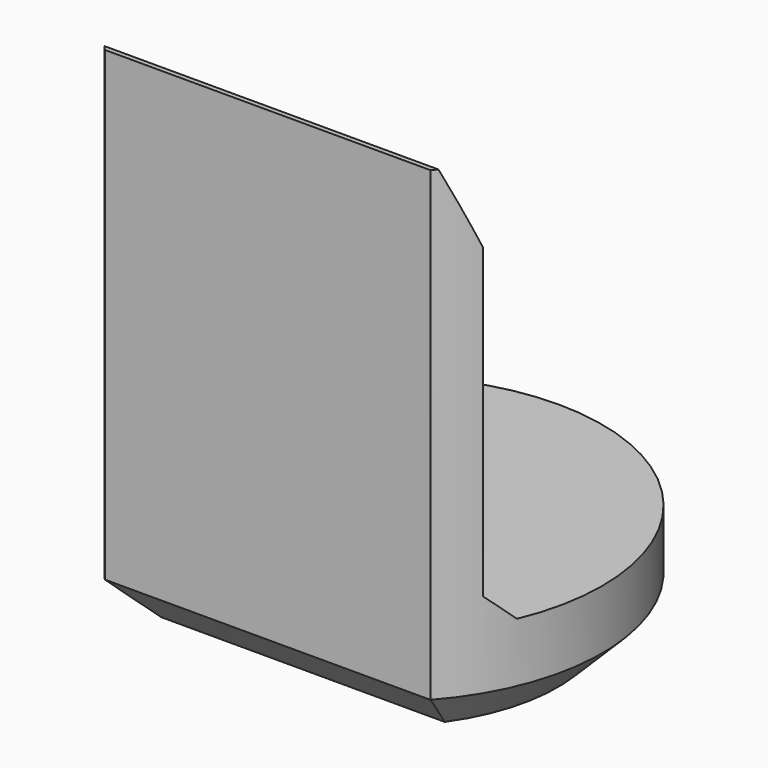
from build123d import *

# Parameters (mm, degrees)
PAD007_DEPTH         = 6.9
POCKET005_DEPTH      = 2.951
POCKET005_DEPTH_BACK = 2.951
CHAMFER008_SIZE      = 0.6


with BuildPart() as part:
    # Sketch018 → Pad007 (new body)
    with BuildSketch(Plane.XY):
        with BuildLine():
            ThreePointArc((2.2, -1.9653244007), (0, 2.95), (-2.2, -1.9653244007))
            Line((-2.2, -1.9653244007), (2.2, -1.9653244007))
        make_face()
    extrude(amount=PAD007_DEPTH)

    # Sketch019 → Pocket005 (cut, two sides)
    with BuildSketch(Plane.YZ) as pocket005_sk:
        Polygon((-1.9, 6.9), (-1.5, 5.9), (-1.5, 1.75), (-1.15, 1.4), (5, 1.4), (5, 6.9), align=None)
    extrude(amount=-POCKET005_DEPTH, mode=Mode.SUBTRACT)
    extrude(pocket005_sk.sketch, amount=POCKET005_DEPTH_BACK, mode=Mode.SUBTRACT)

    # Chamfer008
    chamfer008_edges = [part.edges().sort_by_distance(p)[0] for p in [
        (0, 2.95, 0),
        (0, -1.965324, 0),
    ]]
    chamfer(chamfer008_edges, length=CHAMFER008_SIZE)


with BuildPart() as part_1:
    # Body057 placement: moved
    add(part.part.moved(Location((0, 42, 0))))


solid = part_1.part
